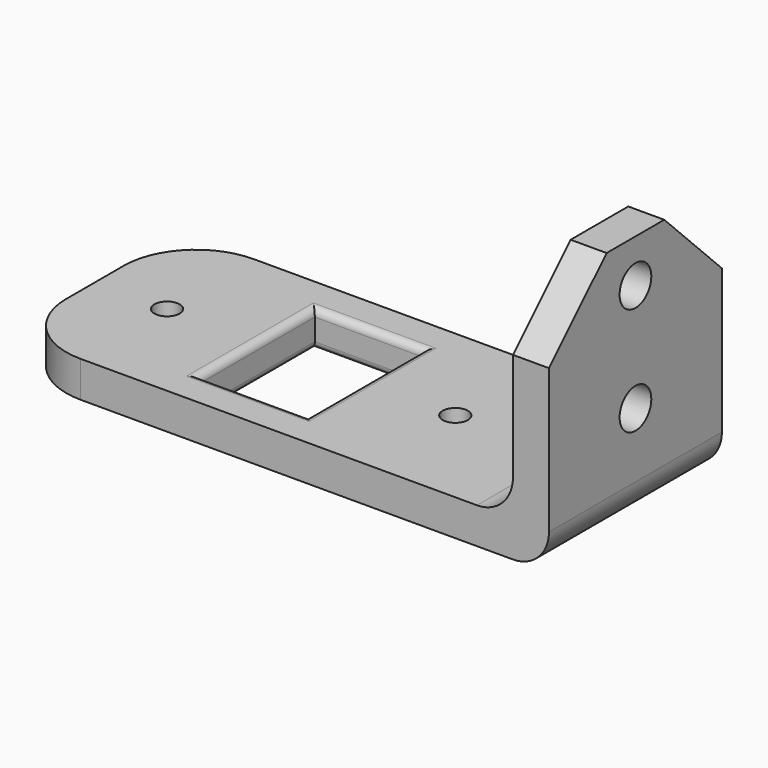
from build123d import *

# Parameters (mm, degrees)
SKETCH_W     = 75
SKETCH_H     = 30
SKETCH_R     = 1.75
SKETCH_W_2   = 15
SKETCH_H_2   = 20
PAD_DEPTH    = 5
FILLET_R     = 10
FILLET001_R  = 1
SKETCH001_W  = 5
SKETCH001_H  = 30
PAD001_DEPTH = 30
FILLET002_R  = 5
FILLET003_R  = 5
SKETCH002_R  = 2.75
POCKET_DEPTH = 75.001
CHAMFER_SIZE = 10


with BuildPart() as part:
    # Sketch → Pad (new body)
    with BuildSketch(Plane.XY):
        with Locations((27.5, 0)):
            Rectangle(SKETCH_W, SKETCH_H)
        Circle(SKETCH_R, mode=Mode.SUBTRACT)
        with Locations((40, 0)):
            Circle(SKETCH_R, mode=Mode.SUBTRACT)
        with Locations((20, 0)):
            Rectangle(SKETCH_W_2, SKETCH_H_2, mode=Mode.SUBTRACT)
    extrude(amount=PAD_DEPTH)

    # Fillet
    fillet_edges = [part.edges().sort_by_distance(p)[0] for p in [
        (-10, 15, 2.5),
        (-10, -15, 2.5),
    ]]
    fillet(fillet_edges, radius=FILLET_R)

    # Fillet001
    fillet001_edges = [part.edges().sort_by_distance(p)[0] for p in [
        (12.5, 0, 5),
        (12.5, 0, 0),
        (20, 10, 0),
        (20, 10, 5),
        (27.5, 0, 5),
        (20, -10, 5),
        (27.5, 0, 0),
        (20, -10, 0),
    ]]
    fillet(fillet001_edges, radius=FILLET001_R)

    # Sketch001 (on Face18 of Fillet001) → Pad001 (join)
    with BuildSketch(Plane.XY.offset(5)):
        with Locations((62.5, 0)):
            Rectangle(SKETCH001_W, SKETCH001_H)
    extrude(amount=PAD001_DEPTH)

    # Fillet002
    fillet002_edges = [part.edges().sort_by_distance(p)[0] for p in [
        (65, 0, 0),
    ]]
    fillet(fillet002_edges, radius=FILLET002_R)

    # Fillet003
    fillet003_edges = [part.edges().sort_by_distance(p)[0] for p in [
        (60, 0, 5),
    ]]
    fillet(fillet003_edges, radius=FILLET003_R)

    # Sketch002 (on Face9 of Fillet003) → Pocket (cut, through all)
    with BuildSketch(Plane.YZ.offset(65)):
        with Locations((0, 29)):
            Circle(SKETCH002_R)
        with Locations((0, 14)):
            Circle(SKETCH002_R)
    extrude(amount=-POCKET_DEPTH, mode=Mode.SUBTRACT)

    # Chamfer
    chamfer_edges = [part.edges().sort_by_distance(p)[0] for p in [
        (62.5, -15, 35),
        (62.5, 15, 35),
    ]]
    chamfer(chamfer_edges, length=CHAMFER_SIZE)


solid = part.part
